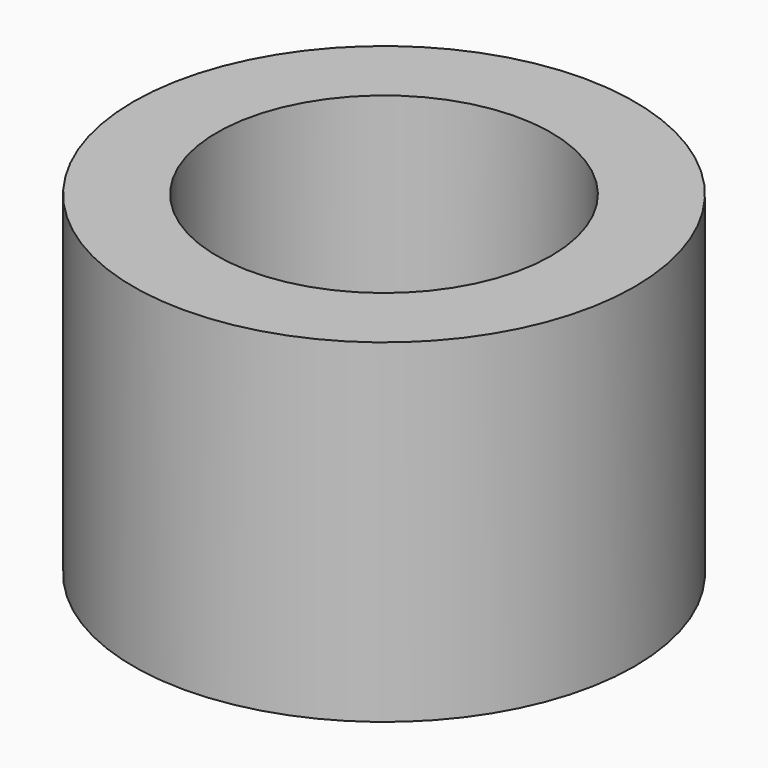
from build123d import *

# Parameters (mm, degrees)
SKETCH_R   = 2.25
SKETCH_R_2 = 1.5
PAD_DEPTH  = 3


with BuildPart() as part:
    # Sketch → Pad (new body)
    with BuildSketch(Plane.XY):
        Circle(SKETCH_R)
        Circle(SKETCH_R_2, mode=Mode.SUBTRACT)
    extrude(amount=PAD_DEPTH)


solid = part.part
